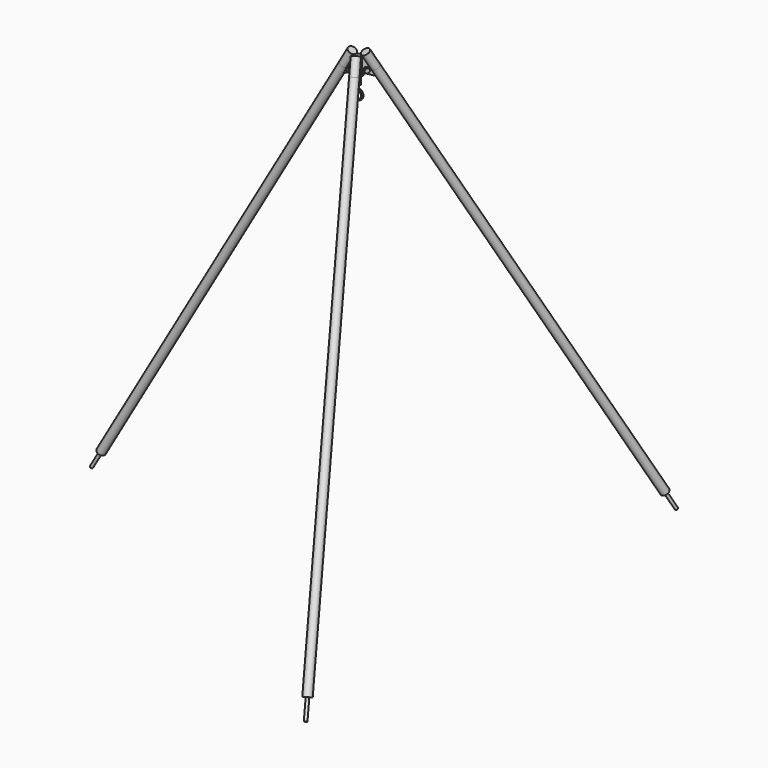
from build123d import *

# Parameters (mm, degrees)
F0_R          = 10
F1_DEPTH      = 100
F2_R          = 5
F3_DEPTH      = 5
F4_COUNT      = 3
F5_R          = 5
F6_DEPTH      = 5
F7_R          = 16
F8_DEPTH      = 65.5166604984
F8_DEPTH_BACK = 1900
F9_R          = 5.6330996131
F10_DEPTH     = 75
F11_COUNT     = 3
F12_COUNT     = 3
F14_DEPTH     = 2.5
F15_R         = 5
F16_DEPTH     = 25
F17_R         = 5
F18_DEPTH     = 10
F20_DEPTH     = 10
F21_COUNT     = 3


with BuildPart() as f1:
    # F0 (on Top) → F1 (new body)
    with BuildSketch(Plane.XY):
        Circle(F0_R)
    extrude(amount=-F1_DEPTH)

    # F13 (on Front) → F14 (join, symmetric)
    with BuildSketch(Plane.XZ):
        with BuildLine():
            ThreePointArc((-20, -134.7901994577), (13.2287565553, -149.7901994577), (2.5, -114.9470646248))
            Line((2.5, -114.9470646248), (2.5, -100))
            Line((2.5, -100), (-2.5, -100))
            Line((-2.5, -100), (-2.5, -120))
            ThreePointArc((-2.5, -120), (11.4564392374, -144.4726578233), (-15, -134.7901994577))
            Line((-15, -134.7901994577), (-20, -134.7901994577))
        make_face()
    extrude(amount=F14_DEPTH, both=True)


with BuildPart() as f3:
    # F2 (on Front) → F3 (new body)
    with BuildSketch(Plane.XZ):
        with BuildLine():
            Line((-10, -75.6521231503), (-10, 0))
            Line((-10, 0), (-36.2583302492, -45.4807621135))
            ThreePointArc((-36.2583302492, -45.4807621135), (-37.5570357418, -55.3454096999), (-31.5, -63.2390923627))
            Line((-31.5, -63.2390923627), (-10, -75.6521231503))
        make_face()
        with Locations((-25, -51.9807621135)):
            Circle(F2_R, mode=Mode.SUBTRACT)
    extrude(amount=F3_DEPTH)


with BuildPart() as f4_1:
    # F4: instance of F3
    add(f3.part.rotate(Axis((0, 0, 0), (0, 0, 1)), 1 * 360 / F4_COUNT))


with BuildPart() as f4_2:
    # F4: instance of F3
    add(f3.part.rotate(Axis((0, 0, 0), (0, 0, 1)), 2 * 360 / F4_COUNT))


with BuildPart() as f6:
    # F5 (on face) → F6 (new body)
    with BuildSketch(Plane(origin=(0, 0, 0), x_dir=(-1, 0, 0), z_dir=(0, 1, 0))):
        with BuildLine():
            Line((56.4213218502, -80.404087999), (12.1586652745, -3.738917932))
            Line((12.1586652745, -3.738917932), (12.1586652745, -51.9807621135))
            ThreePointArc((12.1586652745, -51.9807621135), (14.2005747496, -58.9285885213), (19.676932312, -63.6668576086))
            Line((19.676932312, -63.6668576086), (56.4213218502, -80.404087999))
        make_face()
        with Locations((25, -51.9807621135)):
            Circle(F5_R, mode=Mode.SUBTRACT)
    extrude(amount=F6_DEPTH)


with BuildPart() as f8:
    # F7 (on face) → F8 (new body, two sides)
    with BuildSketch(Plane(origin=(-35.2583302492, 0, -61.0692193817), x_dir=(0.8660254038, 0, -0.5), z_dir=(-0.5, 0, -0.8660254038))) as f8_sk:
        with Locations((-24.6602540378, -2.5)):
            Circle(F7_R)
    extrude(amount=-F8_DEPTH)
    extrude(f8_sk.sketch, amount=F8_DEPTH_BACK)

    # F9 (on face) → F10 (join)
    with BuildSketch(Plane(origin=(-985.2583302492, 0, -1706.5174865721), x_dir=(0.8660254038, 0, -0.5), z_dir=(-0.5, 0, -0.8660254038))):
        with Locations((-24.6602540378, -2.5)):
            Circle(F9_R)
    extrude(amount=F10_DEPTH)


with BuildPart() as f11_1:
    # F11: instance of F6
    add(f6.part.rotate(Axis((0, 0, 0), (0, 0, 1)), 1 * 360 / F11_COUNT))


with BuildPart() as f11_2:
    # F11: instance of F6
    add(f6.part.rotate(Axis((0, 0, 0), (0, 0, 1)), 2 * 360 / F11_COUNT))


with BuildPart() as f12_1:
    # F12: instance of F8
    add(f8.part.rotate(Axis((0, 0, 0), (0, 0, 1)), 1 * 360 / F12_COUNT))


with BuildPart() as f12_2:
    # F12: instance of F8
    add(f8.part.rotate(Axis((0, 0, 0), (0, 0, 1)), 2 * 360 / F12_COUNT))


with BuildPart() as f16:
    # F15 (on face) → F16 (new body)
    with BuildSketch(Plane(origin=(0, 5, 0), x_dir=(-1, 0, 0), z_dir=(0, 1, 0))):
        with Locations((25, -51.9807621135)):
            Circle(F15_R)
    extrude(amount=-F16_DEPTH)

    # F19 (on face) → F20 (join)
    with BuildSketch(Plane(origin=(0, 5, 0), x_dir=(-1, 0, 0), z_dir=(0, 1, 0))):
        Polygon((29.222669899, -60.8409196887), (34.7844564912, -52.7539014968), (30.5617865921, -43.8937439216), (20.777330101, -43.1206045383), (15.2155435088, -51.2076227303), (19.4382134079, -60.0677803055), align=None)
    extrude(amount=F20_DEPTH)


with BuildPart() as f18:
    # F17 (on face) → F18 (new body)
    with BuildSketch(Plane.XZ.offset(5)):
        Polygon((-24.1701776222, -61.7605743896), (-16.1155229358, -56.1520209917), (-16.9453453136, -46.3722087157), (-25.8298223778, -42.2009498375), (-33.8844770642, -47.8095032353), (-33.0546546864, -57.5893155114), align=None)
        with Locations((-25, -51.9807621135)):
            Circle(F17_R, mode=Mode.SUBTRACT)
    extrude(amount=F18_DEPTH)


with BuildPart() as f21_1:
    # F21: instance of F16
    add(f16.part.rotate(Axis((0, 0, 0), (0, 0, 1)), 1 * 360 / F21_COUNT))


with BuildPart() as f21_2:
    # F21: instance of F16
    add(f16.part.rotate(Axis((0, 0, 0), (0, 0, 1)), 2 * 360 / F21_COUNT))


with BuildPart() as f21_3:
    # F21: instance of F18
    add(f18.part.rotate(Axis((0, 0, 0), (0, 0, 1)), 1 * 360 / F21_COUNT))


with BuildPart() as f21_4:
    # F21: instance of F18
    add(f18.part.rotate(Axis((0, 0, 0), (0, 0, 1)), 2 * 360 / F21_COUNT))


solid = Compound([f1.part, f3.part, f4_1.part, f4_2.part, f6.part, f8.part, f11_1.part, f11_2.part, f12_1.part, f12_2.part, f16.part, f18.part, f21_1.part, f21_2.part, f21_3.part, f21_4.part])
